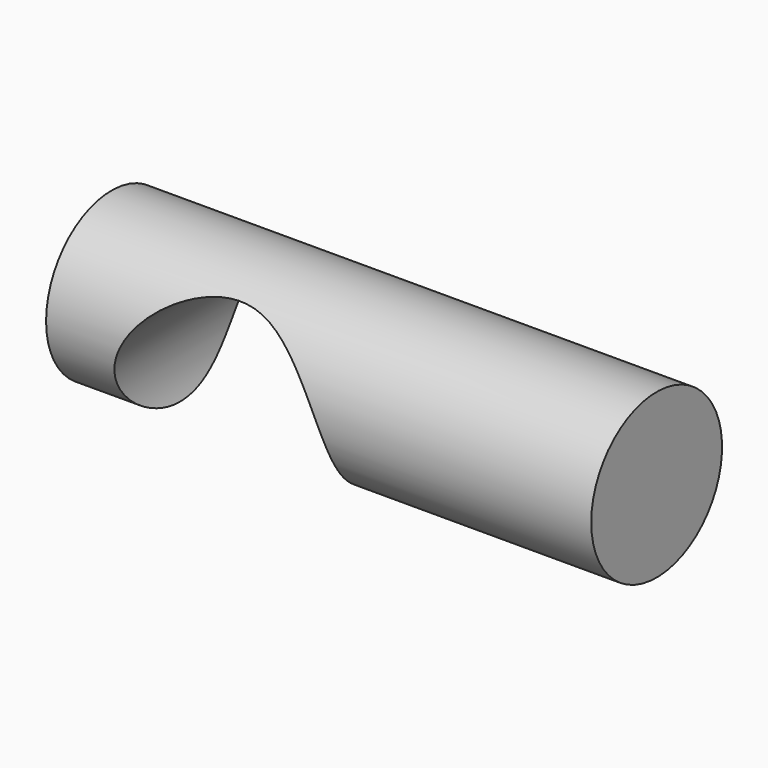
from build123d import *

# Parameters (mm, degrees)
F0_W     = 101.6
F0_H     = 101.6
F1_DEPTH = 101.6
F2_R     = 20.257871
F3_DEPTH = 101.601
F4_R     = 15.235022
F5_DEPTH = 101.601


with BuildPart() as f1:
    # F0 (on Front) → F1 (new body)
    with BuildSketch(Plane.XZ):
        with Locations((-4.734128, 2.650937)):
            Rectangle(F0_W, F0_H)
    extrude(amount=F1_DEPTH)

    # F2 (on face) → F3 (cut, through all)
    with BuildSketch(Plane.XZ.offset(101.6)):
        with Locations((-23.539765, 27.651252)):
            Circle(F2_R)
    extrude(amount=-F3_DEPTH, mode=Mode.SUBTRACT)

    # F4 (on face) → F5 (intersect, through all)
    with BuildSketch(Plane(origin=(-55.534128, 0, 0), x_dir=(0, -1, 0), z_dir=(-1, 0, 0))):
        with Locations((48.238128, 36.392964)):
            Circle(F4_R)
    extrude(amount=-F5_DEPTH, mode=Mode.INTERSECT)


solid = f1.part
